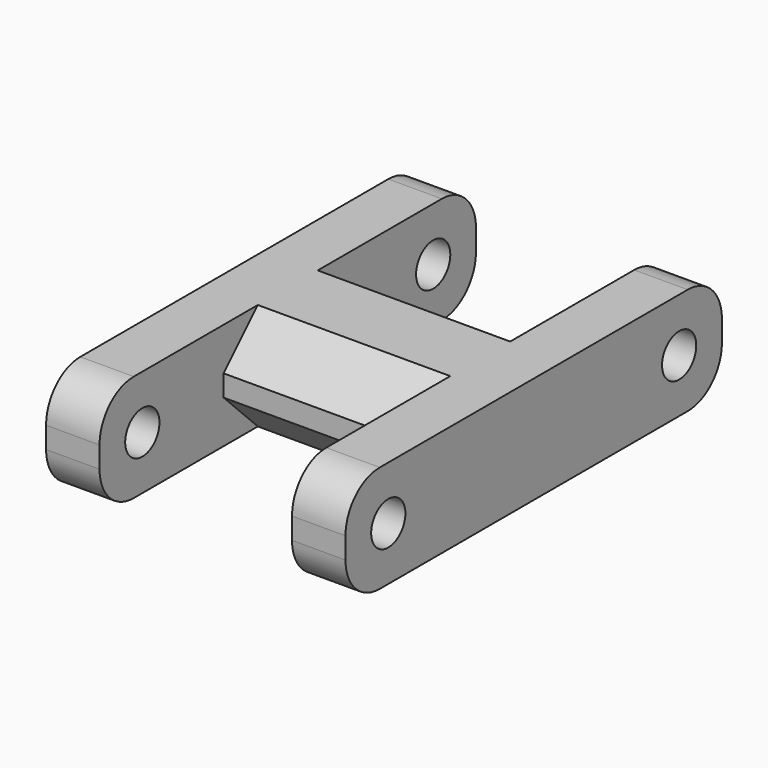
from build123d import *

# Parameters (mm, degrees)
PAD_DEPTH    = 10
SKETCH001_R  = 2
POCKET_DEPTH = 31
CHAMFER_SIZE = 4
FILLET_R     = 4


with BuildPart() as part:
    # Sketch → Pad (new body)
    with BuildSketch(Plane.XY):
        Polygon((-9, 7.5), (9, 7.5), (9, 22), (14, 22), (14, -22), (9, -22), (9, -7.5), (-9, -7.5), (-9, -22), (-14, -22), (-14, 22), (-9, 22), align=None)
    extrude(amount=PAD_DEPTH)

    # Sketch001 (on Face4 of Pad) → Pocket (cut)
    with BuildSketch(Plane.YZ.offset(14)):
        with Locations((-17, 5)):
            Circle(SKETCH001_R)
        with Locations((17, 5)):
            Circle(SKETCH001_R)
    extrude(amount=-POCKET_DEPTH, mode=Mode.SUBTRACT)

    # Chamfer
    chamfer_edges = [part.edges().sort_by_distance(p)[0] for p in [
        (0, 7.5, 10),
        (0, -7.5, 10),
        (0, 7.5, 0),
        (0, -7.5, 0),
    ]]
    chamfer(chamfer_edges, length=CHAMFER_SIZE)

    # Fillet
    fillet_edges = [part.edges().sort_by_distance(p)[0] for p in [
        (11.5, 22, 0),
        (-11.5, 22, 0),
        (11.5, 22, 10),
        (-11.5, 22, 10),
        (11.5, -22, 10),
        (-11.5, -22, 10),
        (-11.5, -22, 0),
        (11.5, -22, 0),
    ]]
    fillet(fillet_edges, radius=FILLET_R)


solid = part.part
